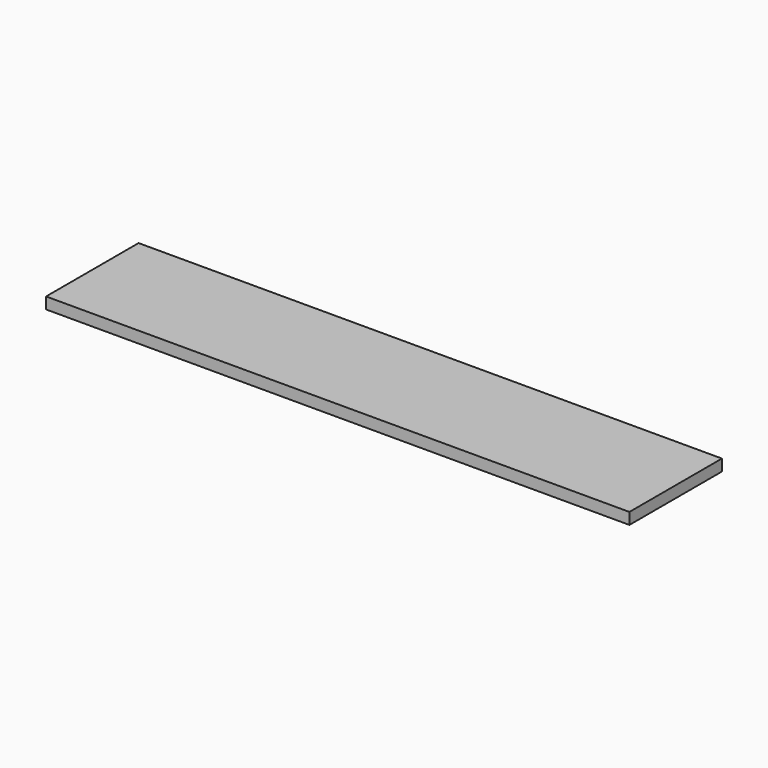
from build123d import *

# Parameters (mm, degrees)
SKETCH_W  = 1120
SKETCH_H  = 222
PAD_DEPTH = 22


with BuildPart() as part:
    # Sketch → Pad (new body)
    with BuildSketch(Plane.XY):
        with Locations((560, 111)):
            Rectangle(SKETCH_W, SKETCH_H)
    extrude(amount=PAD_DEPTH)


solid = part.part
